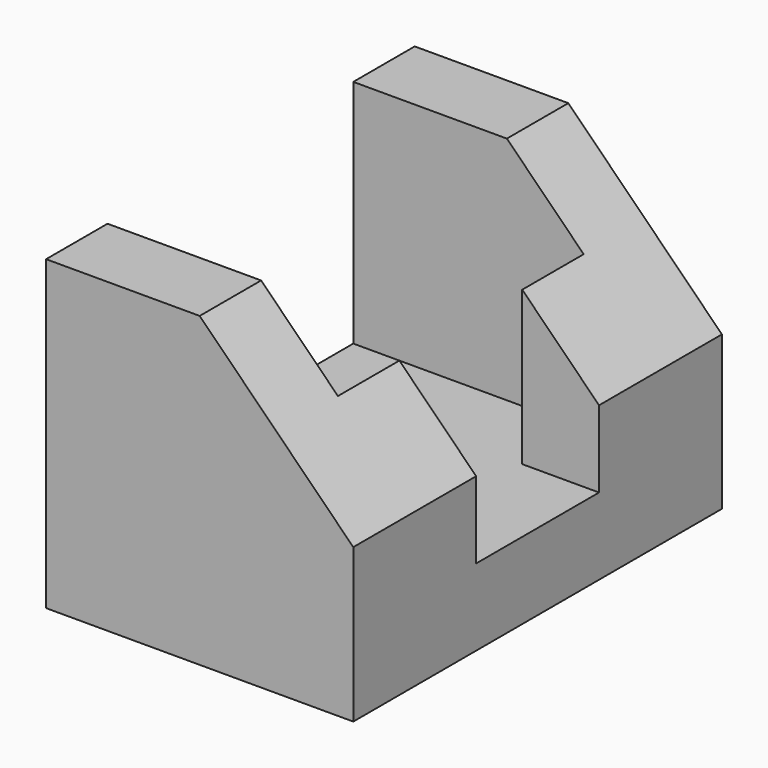
from build123d import *

# Parameters (mm, degrees)
F1_DEPTH = 30
F2_W     = 20
F2_H     = 40
F3_DEPTH = 30


with BuildPart() as f1:
    # F0 (on Front) → F1 (new body, symmetric)
    with BuildSketch(Plane.XZ):
        Polygon((0, 40), (-20, 40), (-20, 0), (20, 0), (20, 20), align=None)
    extrude(amount=F1_DEPTH, both=True)

    # F2 (on face) → F3 (cut)
    with BuildSketch(Plane.XY.offset(40)):
        Polygon((10, 20), (0, 20), (0, -20), (10, -20), (10, -10), (20, -10), (20, 10), (10, 10), align=None)
        with Locations((-10, 0)):
            Rectangle(F2_W, F2_H)
    extrude(amount=-F3_DEPTH, mode=Mode.SUBTRACT)


solid = f1.part
